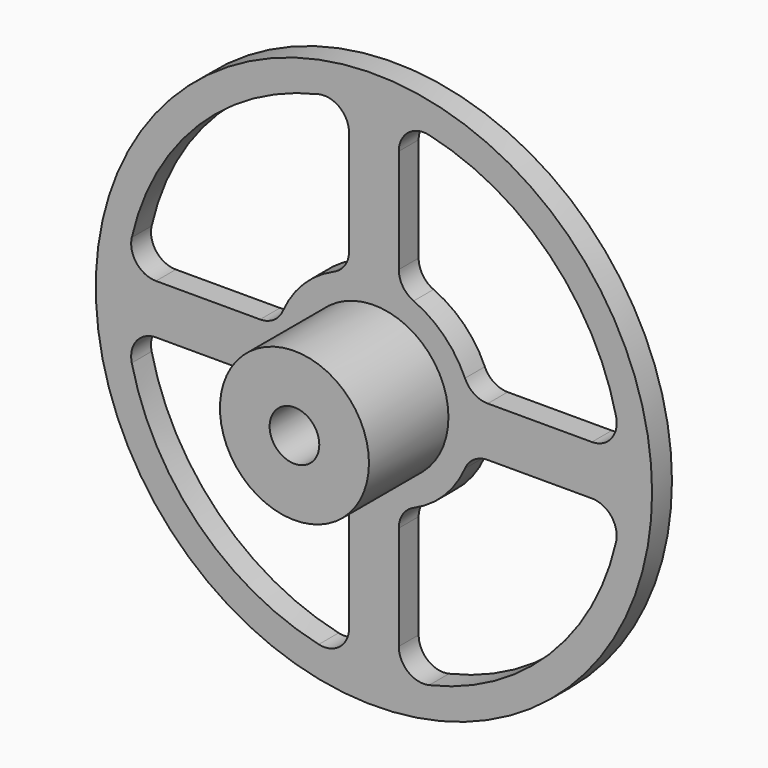
from build123d import *

# Parameters (mm, degrees)
F0_R     = 71.12
F0_R_2   = 19.05
F1_DEPTH = 6.35
F0_R_3   = 6.35
F2_DEPTH = 31.75


with BuildPart() as f1:
    # F0 (on Front) → F1 (new body)
    with BuildSketch(Plane.XZ):
        Circle(F0_R)
        with BuildLine():
            Line((-55.721024, -6.35), (-29.099356, -6.35))
            ThreePointArc((-29.099356, -6.35), (-25.621317, -7.387209), (-23.279485, -10.16))
            ThreePointArc((-23.279485, -10.16), (-17.960512, -17.960512), (-10.16, -23.279485))
            ThreePointArc((-10.16, -23.279485), (-7.387209, -25.621317), (-6.35, -29.099356))
            Line((-6.35, -29.099356), (-6.35, -55.721024))
            ThreePointArc((-6.35, -55.721024), (-8.740079, -60.685047), (-14.111111, -61.912249))
            ThreePointArc((-14.111111, -61.912249), (-44.901281, -44.901281), (-61.912249, -14.111111))
            ThreePointArc((-61.912249, -14.111111), (-60.685047, -8.740079), (-55.721024, -6.35))
        make_face(mode=Mode.SUBTRACT)
        Circle(F0_R_2, mode=Mode.SUBTRACT)
        with BuildLine():
            ThreePointArc((23.279485, -10.16), (25.621317, -7.387209), (29.099356, -6.35))
            Line((29.099356, -6.35), (55.721024, -6.35))
            ThreePointArc((55.721024, -6.35), (60.685047, -8.740079), (61.912249, -14.111111))
            ThreePointArc((61.912249, -14.111111), (44.901281, -44.901281), (14.111111, -61.912249))
            ThreePointArc((14.111111, -61.912249), (8.740079, -60.685047), (6.35, -55.721024))
            Line((6.35, -55.721024), (6.35, -29.099356))
            ThreePointArc((6.35, -29.099356), (7.387209, -25.621317), (10.16, -23.279485))
            ThreePointArc((10.16, -23.279485), (17.960512, -17.960512), (23.279485, -10.16))
        make_face(mode=Mode.SUBTRACT)
        with BuildLine():
            ThreePointArc((-23.279485, 10.16), (-25.621317, 7.387209), (-29.099356, 6.35))
            Line((-29.099356, 6.35), (-55.721024, 6.35))
            ThreePointArc((-55.721024, 6.35), (-60.685047, 8.740079), (-61.912249, 14.111111))
            ThreePointArc((-61.912249, 14.111111), (-44.901281, 44.901281), (-14.111111, 61.912249))
            ThreePointArc((-14.111111, 61.912249), (-8.740079, 60.685047), (-6.35, 55.721024))
            Line((-6.35, 55.721024), (-6.35, 29.099356))
            ThreePointArc((-6.35, 29.099356), (-7.387209, 25.621317), (-10.16, 23.279485))
            ThreePointArc((-10.16, 23.279485), (-17.960512, 17.960512), (-23.279485, 10.16))
        make_face(mode=Mode.SUBTRACT)
        with BuildLine():
            ThreePointArc((14.111111, 61.912249), (44.901281, 44.901281), (61.912249, 14.111111))
            ThreePointArc((61.912249, 14.111111), (60.685047, 8.740079), (55.721024, 6.35))
            Line((55.721024, 6.35), (29.099356, 6.35))
            ThreePointArc((29.099356, 6.35), (25.621317, 7.387209), (23.279485, 10.16))
            ThreePointArc((23.279485, 10.16), (17.960512, 17.960512), (10.16, 23.279485))
            ThreePointArc((10.16, 23.279485), (7.387209, 25.621317), (6.35, 29.099356))
            Line((6.35, 29.099356), (6.35, 55.721024))
            ThreePointArc((6.35, 55.721024), (8.740079, 60.685047), (14.111111, 61.912249))
        make_face(mode=Mode.SUBTRACT)
    extrude(amount=F1_DEPTH)

    # F0 (on Front) → F2 (join)
    with BuildSketch(Plane.XZ):
        Circle(F0_R_2)
        Circle(F0_R_3, mode=Mode.SUBTRACT)
    extrude(amount=F2_DEPTH)


solid = f1.part
